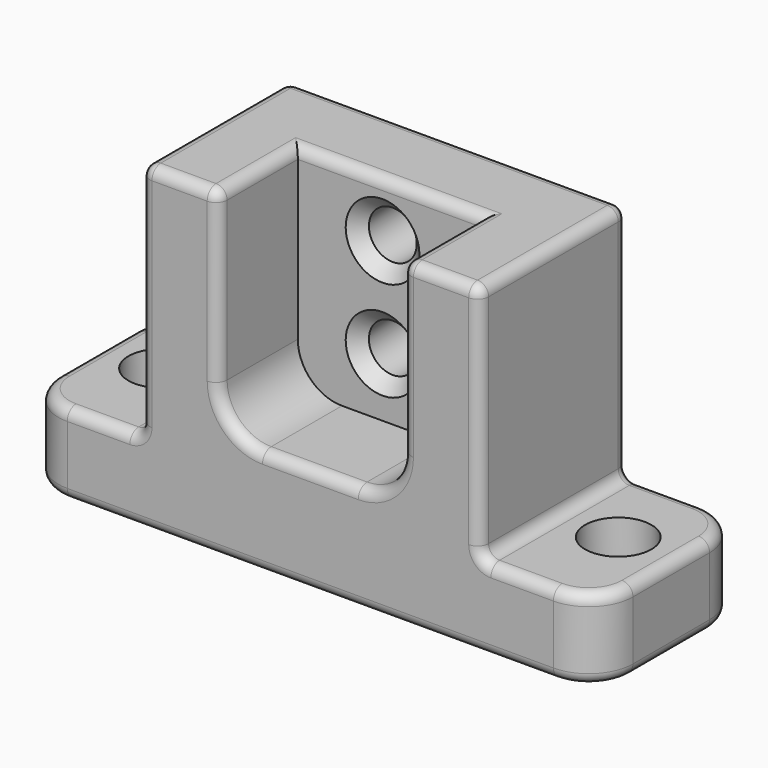
from build123d import *

# Parameters (mm, degrees)
F0_W           = 156
F0_H           = 50
F1_DEPTH       = 87
F2_W           = 32
F2_H           = 65
F3_DEPTH       = 50
F4_W           = 50
F4_H           = 58
F5_DEPTH       = 27
F7_D           = 13
F7_CBORE_D     = 18
F7_CBORE_DEPTH = 10
F9_D           = 13
F9_CSINK_D     = 20
F9_CSINK_ANGLE = 90
F10_R          = 12
F11_R          = 3


with BuildPart() as f1:
    # F0 (on Top) → F1 (new body)
    with BuildSketch(Plane.XY):
        with Locations((78, 25)):
            Rectangle(F0_W, F0_H)
    extrude(amount=F1_DEPTH)

    # F2 (on face) → F3 (cut, through all)
    with BuildSketch(Plane.XZ):
        with Locations((16, 54.5)):
            Rectangle(F2_W, F2_H)
        with Locations((140, 54.5)):
            Rectangle(F2_W, F2_H)
    extrude(amount=-F3_DEPTH, mode=Mode.SUBTRACT)

    # F4 (on face) → F5 (cut)
    with BuildSketch(Plane.XZ):
        with Locations((78, 58)):
            Rectangle(F4_W, F4_H)
    extrude(amount=-F5_DEPTH, mode=Mode.SUBTRACT)

    # F7 (through all)
    with Locations(Plane.XY.offset(22)):
        with Locations((16, 27), (140, 27)):
            CounterBoreHole(F7_D / 2, F7_CBORE_D / 2, F7_CBORE_DEPTH)

    # F9 (through all)
    with Locations(Plane.XZ.offset(-27)):
        with Locations((76, 72), (76, 45)):
            CounterSinkHole(F9_D / 2, F9_CSINK_D / 2, counter_sink_angle=F9_CSINK_ANGLE)

    # F10
    f10_edges = [f1.edges().sort_by_distance(p)[0] for p in [
        (53, 13.5, 29),
        (103, 13.5, 29),
        (0, 0, 11),
        (0, 50, 11),
        (156, 0, 11),
        (156, 50, 11),
    ]]
    fillet(f10_edges, radius=F10_R)

    # F11
    f11_edges = [f1.edges().sort_by_distance(p)[0] for p in [
        (78, 0, 0),
        (12, 0, 11),
        (144, 0, 11),
        (22, 0, 22),
        (134, 0, 22),
        (32, 0, 54.5),
        (124, 0, 54.5),
        (42.5, 0, 87),
        (113.5, 0, 87),
        (53, 0, 64),
        (103, 0, 64),
        (56.514719, 0, 32.514719),
        (99.485281, 0, 32.514719),
        (78, 0, 29),
        (124, 25, 87),
        (124, 25, 22),
        (124, 50, 54.5),
        (103, 13.5, 87),
        (78, 27, 87),
        (53, 13.5, 87),
        (32, 25, 87),
        (78, 50, 87),
        (78, 50, 0),
        (144, 50, 11),
        (12, 50, 11),
        (134, 50, 22),
        (22, 50, 22),
        (32, 50, 54.5),
        (69.5, 50, 72),
        (69.5, 50, 45),
        (32, 25, 22),
    ]]
    fillet(f11_edges, radius=F11_R)


solid = f1.part
